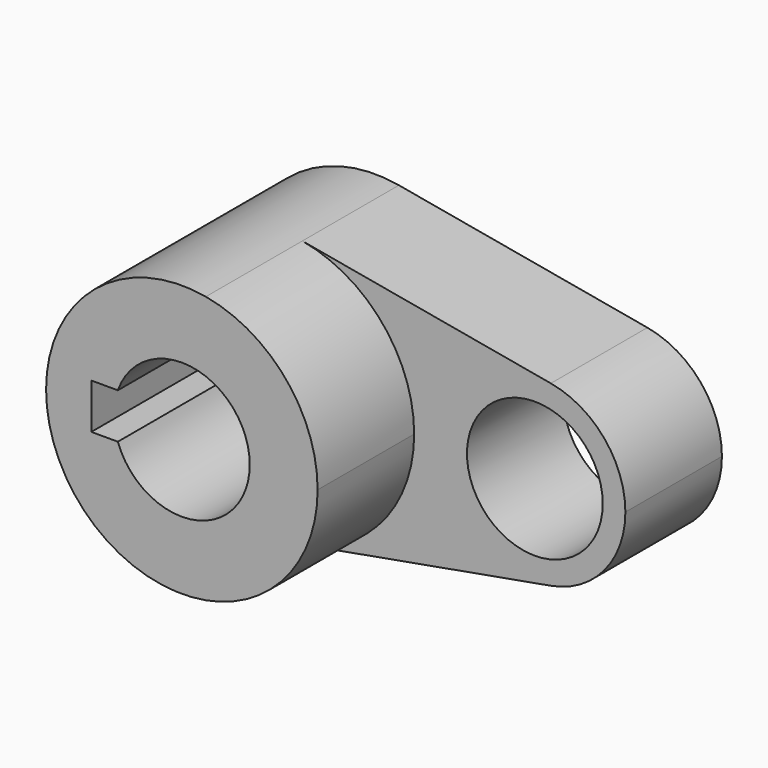
from build123d import *

# Parameters (mm, degrees)
F0_R     = 14.2875
F1_DEPTH = 25.4
F2_DEPTH = 50.8


with BuildPart() as f1:
    # F0 (on Front) → F1 (new body)
    with BuildSketch(Plane.XZ):
        with BuildLine():
            ThreePointArc((5.042647, 28.126541), (21.916025, 18.336262), (28.575, 0))
            ThreePointArc((28.575, 0), (21.916025, -18.336262), (5.042647, -28.126541))
            Line((5.042647, -28.126541), (57.336765, -18.751028))
            ThreePointArc((57.336765, -18.751028), (34.925, 0), (57.336765, 18.751028))
            Line((57.336765, 18.751028), (5.042647, 28.126541))
        make_face()
        with BuildLine():
            ThreePointArc((73.025, 0), (68.585683, 12.224174), (57.336765, 18.751028))
            ThreePointArc((57.336765, 18.751028), (34.925, 0), (57.336765, -18.751028))
            ThreePointArc((57.336765, -18.751028), (68.585683, -12.224174), (73.025, 0))
        make_face()
        with Locations((53.975, 0)):
            Circle(F0_R, mode=Mode.SUBTRACT)
        with BuildLine():
            ThreePointArc((5.042647, -28.126541), (21.916025, -18.336262), (28.575, 0))
            ThreePointArc((28.575, 0), (21.916025, 18.336262), (5.042647, 28.126541))
            ThreePointArc((5.042647, 28.126541), (-28.575, 0), (5.042647, -28.126541))
        make_face()
        with BuildLine():
            ThreePointArc((-13.470384, 4.7625), (0, 14.2875), (13.470384, 4.7625))
            Line((13.470384, 4.7625), (19.05, 4.7625))
            Line((19.05, 4.7625), (19.05, -4.7625))
            Line((19.05, -4.7625), (13.470384, -4.7625))
            ThreePointArc((13.470384, -4.7625), (0, -14.2875), (-13.470384, -4.7625))
            Line((-13.470384, -4.7625), (-19.05, -4.7625))
            Line((-19.05, -4.7625), (-19.05, 4.7625))
            Line((-19.05, 4.7625), (-13.470384, 4.7625))
        make_face(mode=Mode.SUBTRACT)
        with BuildLine():
            ThreePointArc((13.470384, 4.7625), (14.081739, 2.416045), (14.2875, 0))
            ThreePointArc((14.2875, 0), (14.081739, -2.416045), (13.470384, -4.7625))
            Line((13.470384, -4.7625), (19.05, -4.7625))
            Line((19.05, -4.7625), (19.05, 4.7625))
            Line((19.05, 4.7625), (13.470384, 4.7625))
        make_face()
    extrude(amount=F1_DEPTH)

    # F0 (on Front) → F2 (join)
    with BuildSketch(Plane.XZ):
        with BuildLine():
            ThreePointArc((5.042647, -28.126541), (21.916025, -18.336262), (28.575, 0))
            ThreePointArc((28.575, 0), (21.916025, 18.336262), (5.042647, 28.126541))
            ThreePointArc((5.042647, 28.126541), (-28.575, 0), (5.042647, -28.126541))
        make_face()
        with BuildLine():
            ThreePointArc((-13.470384, 4.7625), (0, 14.2875), (13.470384, 4.7625))
            Line((13.470384, 4.7625), (19.05, 4.7625))
            Line((19.05, 4.7625), (19.05, -4.7625))
            Line((19.05, -4.7625), (13.470384, -4.7625))
            ThreePointArc((13.470384, -4.7625), (0, -14.2875), (-13.470384, -4.7625))
            Line((-13.470384, -4.7625), (-19.05, -4.7625))
            Line((-19.05, -4.7625), (-19.05, 4.7625))
            Line((-19.05, 4.7625), (-13.470384, 4.7625))
        make_face(mode=Mode.SUBTRACT)
        with BuildLine():
            ThreePointArc((13.470384, 4.7625), (14.081739, 2.416045), (14.2875, 0))
            ThreePointArc((14.2875, 0), (14.081739, -2.416045), (13.470384, -4.7625))
            Line((13.470384, -4.7625), (19.05, -4.7625))
            Line((19.05, -4.7625), (19.05, 4.7625))
            Line((19.05, 4.7625), (13.470384, 4.7625))
        make_face()
    extrude(amount=F2_DEPTH)


solid = f1.part
